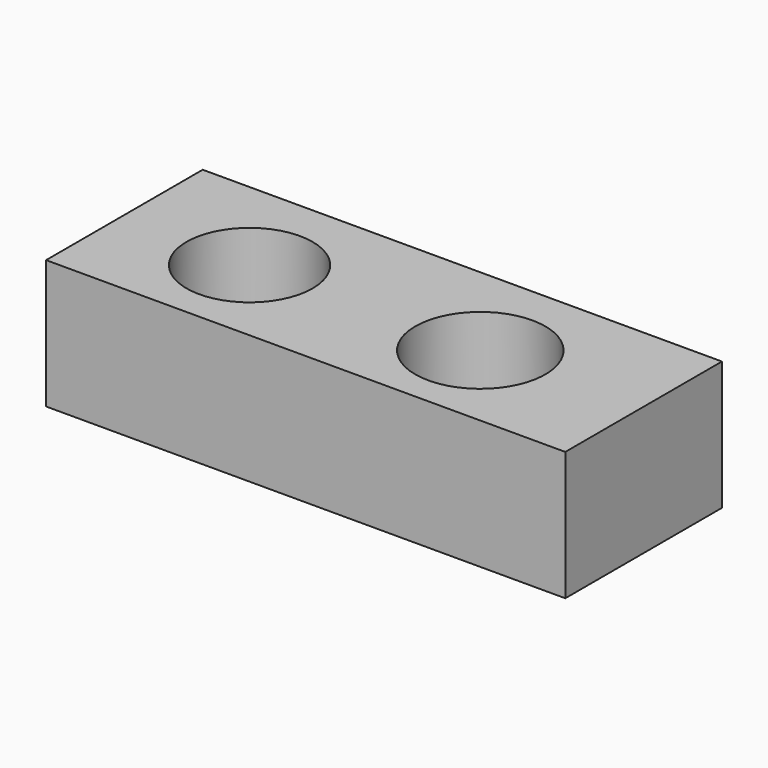
from build123d import *

# Parameters (mm, degrees)
F1_W     = 66.008249
F1_H     = 24.892001
F1_R     = 8.01334
F2_DEPTH = 16.383


with BuildPart() as f2:
    # F1 (on face) → F2 (new body)
    with BuildSketch(Plane.XY):
        with Locations((-8.556625, 22.447252)):
            Rectangle(F1_W, F1_H)
        with Locations((-25.114251, 21.7805)):
            Circle(F1_R, mode=Mode.SUBTRACT)
        with BuildLine():
            ThreePointArc((12.493915, 21.7805), (4.22275, 13.509336), (-4.048414, 21.7805))
            ThreePointArc((-4.048414, 21.7805), (4.22275, 30.051665), (12.493915, 21.7805))
        make_face(mode=Mode.SUBTRACT)
    extrude(amount=F2_DEPTH)


solid = f2.part
